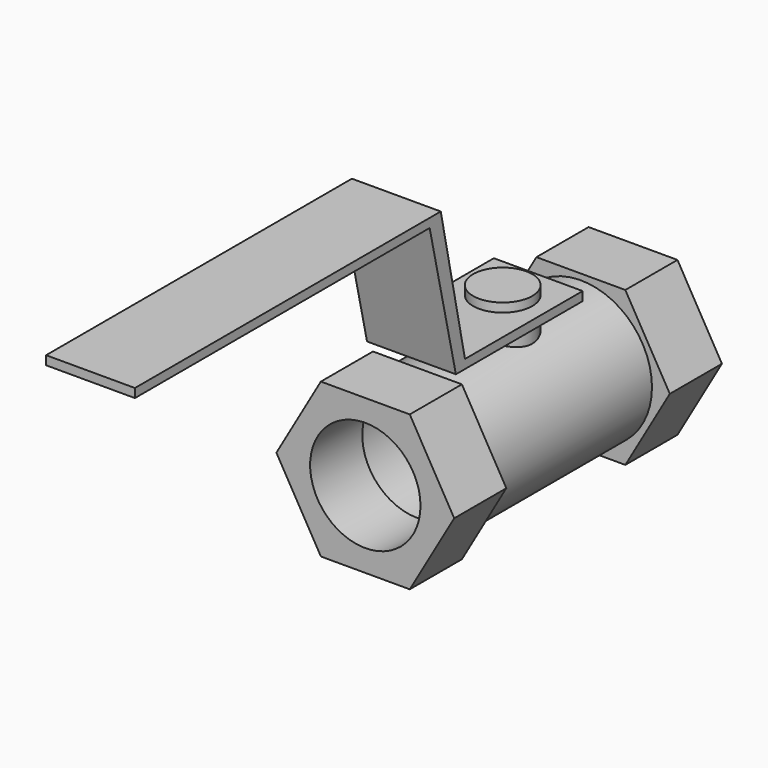
from build123d import *

# Parameters (mm, degrees)
F0_R     = 9.3155
F1_DEPTH = 11
F2_R     = 12
F2_R_2   = 10.5
F3_DEPTH = 34.5
F4_R     = 9.3155
F5_DEPTH = 11
F6_R     = 5
F7_DEPTH = 18
F9_DEPTH = 7.5


with BuildPart() as f1:
    # F0 (on Front) → F1 (new body)
    with BuildSketch(Plane.XZ):
        Polygon((-7.5055534995, 13), (-15.0111069989, 0), (-7.5055534995, -13), (7.5055534995, -13), (15.0111069989, 0), (7.5055534995, 13), align=None)
        Circle(F0_R, mode=Mode.SUBTRACT)
    extrude(amount=F1_DEPTH)

    # F2 (on face) → F3 (join)
    with BuildSketch(Plane.XZ.offset(11)):
        Circle(F2_R)
        Circle(F2_R_2, mode=Mode.SUBTRACT)
    extrude(amount=F3_DEPTH)

    # F4 (on face) → F5 (join)
    with BuildSketch(Plane.XZ.offset(45.5)):
        Polygon((-7.5055534995, 13), (-15.0111069989, 0), (-7.5055534995, -13), (7.5055534995, -13), (15.0111069989, 0), (7.5055534995, 13), align=None)
        Circle(F4_R, mode=Mode.SUBTRACT)
    extrude(amount=F5_DEPTH)

    # F6 (on Top) → F7 (join)
    with BuildSketch(Plane.XY):
        with Locations((0, -27.5)):
            Circle(F6_R)
    extrude(amount=F7_DEPTH)

    # F8 (on Right) → F9 (join, symmetric)
    with BuildSketch(Plane.YZ):
        Polygon((-20, 15), (-20, 16.5), (-44.8413931031, 16.5), (-49.9539528364, 40.5), (-114.5, 40.5), (-114.5, 39), (-52.2972028911, 39), (-46.7586030031, 15), align=None)
    extrude(amount=F9_DEPTH, both=True)


solid = f1.part
